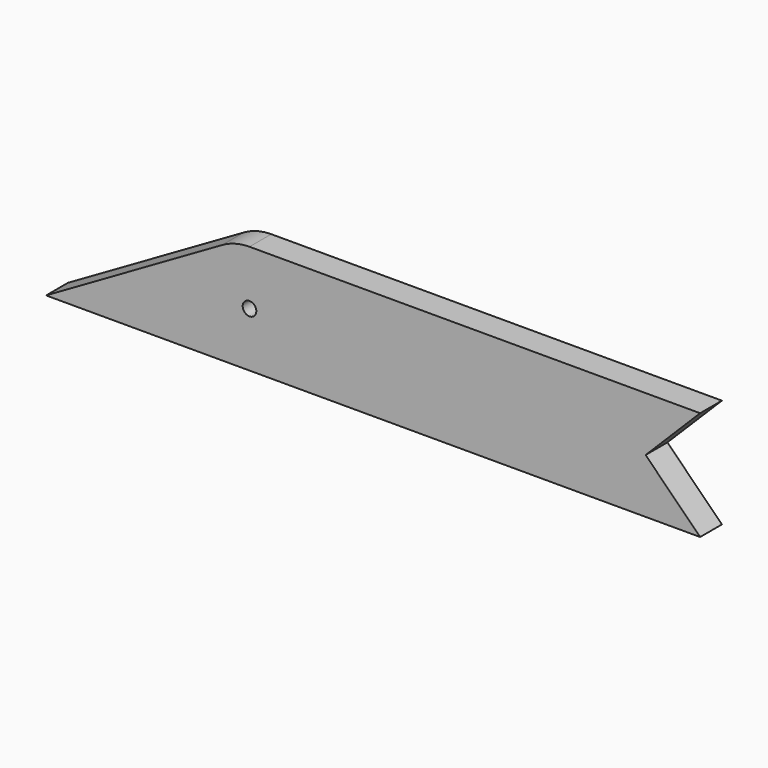
from build123d import *

# Parameters (mm, degrees)
F1_DEPTH = 3.175


with BuildPart() as f1:
    # F0 (on Front) → F1 (new body, symmetric)
    with BuildSketch(Plane.XZ):
        with BuildLine():
            Line((-311.3615883296, -165.1), (-263.9645430735, -165.1))
            ThreePointArc((-263.9645430735, -165.1), (-276.2318010674, -155.6870018728), (-270.3145430735, -141.4014773719))
            Line((-270.3145430735, -141.4014773719), (-311.3615883296, -165.1))
        make_face()
        with BuildLine():
            ThreePointArc((-257.6145430735, -163.3985226281), (-252.9660204454, -158.75), (-251.2645430735, -152.4))
            Line((-251.2645430735, -152.4), (-262.3770430735, -152.4))
            ThreePointArc((-262.3770430735, -152.4), (-265.4979503227, -152.8108752341), (-262.589727745, -151.60625))
            Line((-262.589727745, -151.60625), (-252.9660204454, -146.05))
            ThreePointArc((-252.9660204454, -146.05), (-257.6145430735, -141.4014773719), (-263.9645430735, -139.7))
            ThreePointArc((-263.9645430735, -139.7), (-267.2515449463, -140.1327420061), (-270.3145430735, -141.4014773719))
            ThreePointArc((-270.3145430735, -141.4014773719), (-276.2318010674, -155.6870018728), (-263.9645430735, -165.1))
            ThreePointArc((-263.9645430735, -165.1), (-260.6775412007, -164.6672579939), (-257.6145430735, -163.3985226281))
        make_face()
        with BuildLine():
            Line((-262.3770430735, -152.4), (-251.2645430735, -152.4))
            ThreePointArc((-251.2645430735, -152.4), (-251.6972850796, -149.1129981272), (-252.9660204454, -146.05))
            Line((-252.9660204454, -146.05), (-262.589727745, -151.60625))
            ThreePointArc((-262.589727745, -151.60625), (-262.4311358243, -151.9891247659), (-262.3770430735, -152.4))
        make_face()
        with BuildLine():
            Line((-238.5645430735, -152.4), (-251.2645430735, -152.4))
            ThreePointArc((-251.2645430735, -152.4), (-252.9660204454, -158.75), (-257.6145430735, -163.3985226281))
            Line((-257.6145430735, -163.3985226281), (-238.5645430735, -152.4))
        make_face()
        with BuildLine():
            ThreePointArc((-263.9645430735, -139.7), (-257.6145430735, -141.4014773719), (-252.9660204454, -146.05))
            Line((-252.9660204454, -146.05), (-241.9674978174, -139.7))
            Line((-241.9674978174, -139.7), (-263.9645430735, -139.7))
        make_face()
        with BuildLine():
            ThreePointArc((-252.9660204454, -146.05), (-251.6972850796, -149.1129981272), (-251.2645430735, -152.4))
            Line((-251.2645430735, -152.4), (-238.5645430735, -152.4))
            Line((-238.5645430735, -152.4), (-216.5674978174, -139.7))
            Line((-216.5674978174, -139.7), (-241.9674978174, -139.7))
            Line((-241.9674978174, -139.7), (-252.9660204454, -146.05))
        make_face()
        Polygon((-216.5674978174, -139.7), (-238.5645430735, -152.4), (-171.6615883296, -152.4), (-158.9615883296, -139.7), align=None)
        with BuildLine():
            Line((-171.6615883296, -152.4), (-238.5645430735, -152.4))
            Line((-238.5645430735, -152.4), (-257.6145430735, -163.3985226281))
            ThreePointArc((-257.6145430735, -163.3985226281), (-260.6775412007, -164.6672579939), (-263.9645430735, -165.1))
            Line((-263.9645430735, -165.1), (-158.9615883296, -165.1))
            Line((-158.9615883296, -165.1), (-171.6615883296, -152.4))
        make_face()
    extrude(amount=F1_DEPTH, both=True)


solid = f1.part
